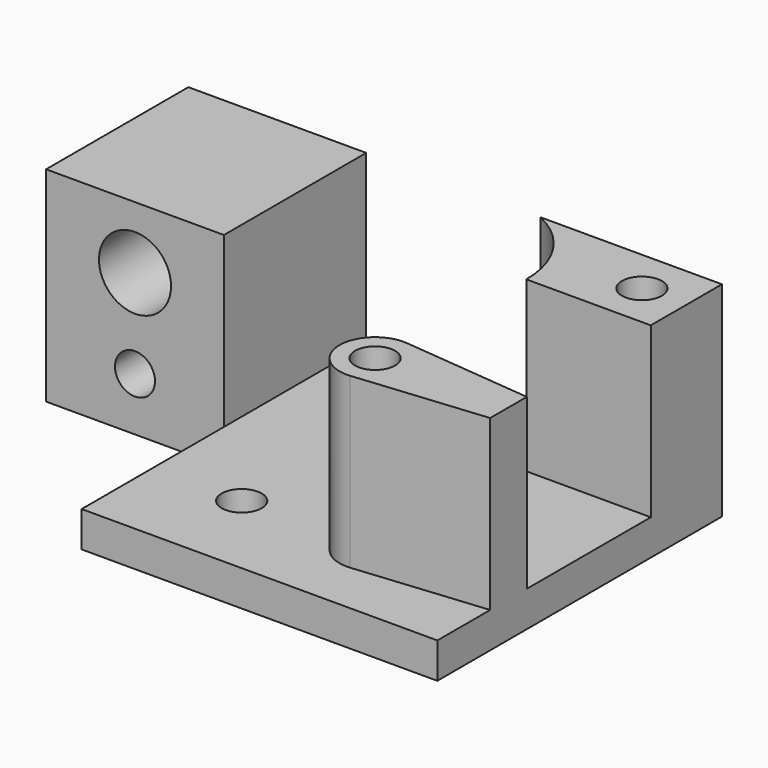
from build123d import *

# Parameters (mm, degrees)
SKETCH_R        = 2.25
PAD_DEPTH       = 23
POCKET_DEPTH    = 19
SKETCH002_R     = 4.05
SKETCH002_R_2   = 2.25
POCKET001_DEPTH = 20.001


with BuildPart() as part:
    # Sketch → Pad (new body)
    with BuildSketch(Plane.XY):
        Polygon((0, -20), (40, -20), (40, 20), (-20, 20), (-20, 0), (0, 0), align=None)
        with Locations((15, 8)):
            Circle(SKETCH_R, mode=Mode.SUBTRACT)
        with Locations((10, -10)):
            Circle(SKETCH_R, mode=Mode.SUBTRACT)
        with Locations((25, -10)):
            Circle(SKETCH_R, mode=Mode.SUBTRACT)
        with Locations((35, 15)):
            Circle(SKETCH_R, mode=Mode.SUBTRACT)
    extrude(amount=PAD_DEPTH)

    # Sketch001 → Pocket (cut)
    with BuildSketch(Plane.XY.offset(23)):
        with BuildLine():
            Line((46, 10), (26, 10))
            ThreePointArc((26, 10), (22.778175, 17.778175), (15, 21))
            Line((15, 21), (0, 21))
            Line((0, 21), (0, -23))
            Line((0, -23), (46, -23))
            Line((46, -23), (46, -12))
            Line((25.382674, -13.981653), (46, -12))
            ThreePointArc((25.382674, -6.018347), (21, -10), (25.382674, -13.981653))
            Line((25.382674, -6.018347), (46, -8))
            Line((46, -8), (46, 10))
        make_face()
    extrude(amount=-POCKET_DEPTH, mode=Mode.SUBTRACT)

    # Sketch002 → Pocket001 (cut, through all)
    with BuildSketch(Plane.XZ):
        with Locations((-10, 16)):
            Circle(SKETCH002_R)
        with Locations((-10, 6)):
            Circle(SKETCH002_R_2)
    extrude(amount=-POCKET001_DEPTH, mode=Mode.SUBTRACT)


solid = part.part
